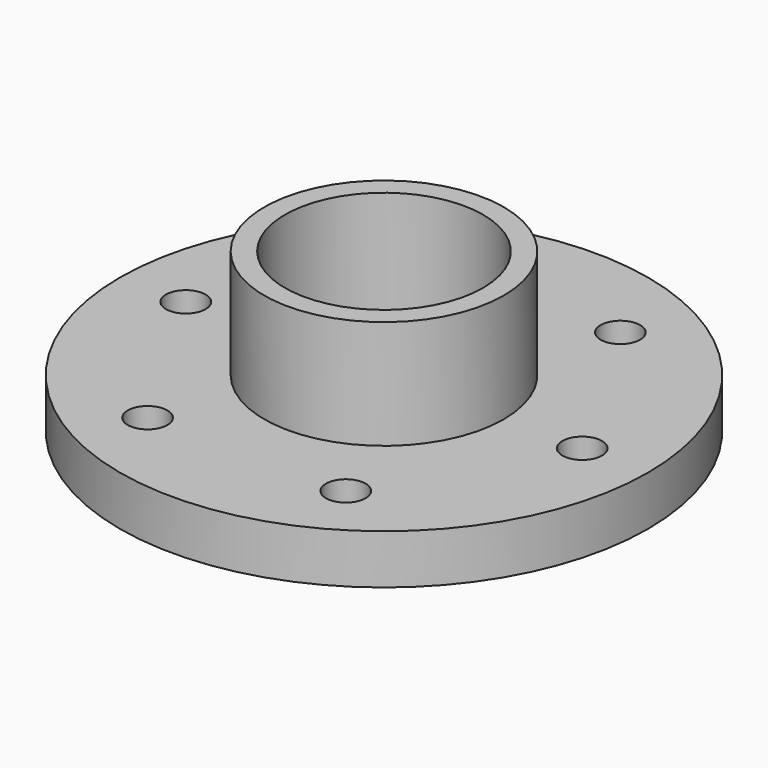
from build123d import *

# Parameters (mm, degrees)
F0_R     = 31.75
F1_DEPTH = 5.95376
F2_R     = 14.39799
F3_DEPTH = 13.09624
F5_R     = 2.38125
F6_DEPTH = 5.95476
F4_R     = 11.9126
F7_DEPTH = 15.24


with BuildPart() as f1:
    # F0 (on Top) → F1 (new body)
    with BuildSketch(Plane.XY):
        Circle(F0_R)
    extrude(amount=-F1_DEPTH)

    # F2 (on face) → F3 (join)
    with BuildSketch(Plane.XY):
        Circle(F2_R)
    extrude(amount=F3_DEPTH)

    # F5 (on face) → F6 (cut, through all)
    with BuildSketch(Plane.XY):
        with Locations((-23.8252, 0)):
            Circle(F5_R)
        with Locations((-11.9126, 20.633228)):
            Circle(F5_R)
        with Locations((11.9126, 20.633228)):
            Circle(F5_R)
        with Locations((23.8252, 0)):
            Circle(F5_R)
        with Locations((11.9126, -20.633228)):
            Circle(F5_R)
        with Locations((-11.9126, -20.633228)):
            Circle(F5_R)
    extrude(amount=-F6_DEPTH, mode=Mode.SUBTRACT)

    # F4 (on face) → F7 (cut)
    with BuildSketch(Plane.XY.offset(13.09624)):
        Circle(F4_R)
    extrude(amount=-F7_DEPTH, mode=Mode.SUBTRACT)


solid = f1.part
